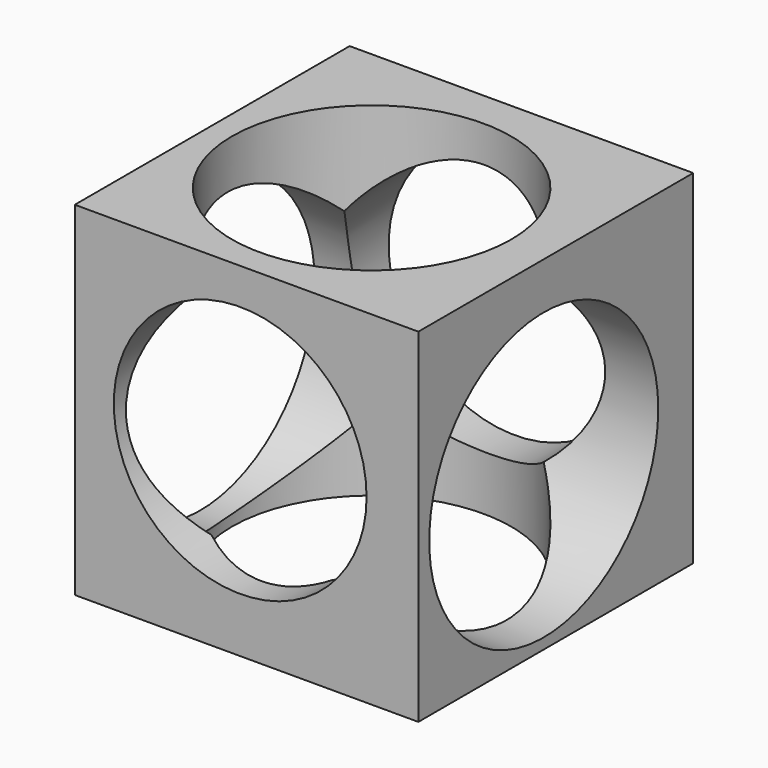
from build123d import *

# Parameters (mm, degrees)
F0_W     = 203.2
F0_H     = 203.2
F1_DEPTH = 203.2
F2_R     = 74.748305
F3_DEPTH = 203.201
F4_R     = 82.604555
F5_DEPTH = 203.201
F6_R     = 84.650085
F7_DEPTH = 203.201


with BuildPart() as f1:
    # F0 (on Front) → F1 (new body)
    with BuildSketch(Plane.XZ):
        with Locations((101.6, 101.6)):
            Rectangle(F0_W, F0_H)
    extrude(amount=F1_DEPTH)

    # F2 (on face) → F3 (cut, through all)
    with BuildSketch(Plane.XZ.offset(203.2)):
        with Locations((97.820908, 107.086942)):
            Circle(F2_R)
    extrude(amount=-F3_DEPTH, mode=Mode.SUBTRACT)

    # F4 (on face) → F5 (cut, through all)
    with BuildSketch(Plane.XY.offset(203.2)):
        with Locations((96.513152, -104.414567)):
            Circle(F4_R)
    extrude(amount=-F5_DEPTH, mode=Mode.SUBTRACT)

    # F6 (on face) → F7 (cut, through all)
    with BuildSketch(Plane.YZ.offset(203.2)):
        with Locations((-110.511161, 90.951629)):
            Circle(F6_R)
    extrude(amount=-F7_DEPTH, mode=Mode.SUBTRACT)


solid = f1.part
